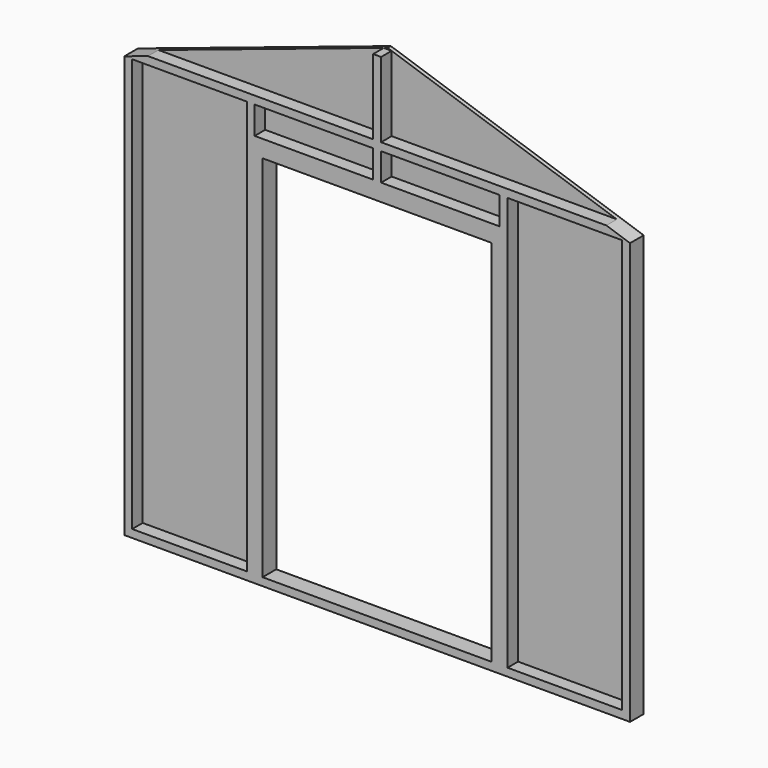
from build123d import *

# Parameters (mm, degrees)
F0_W     = 106.02127
F0_H     = 2032
F1_DEPTH = 19.05
F2_W     = 38.1
F2_H     = 361.95
F2_H_2   = 133.35
F2_H_3   = 1993.9
F3_DEPTH = 63.5
F2_H_4   = 1778
F2_W_2   = 1181.1
F2_H_5   = 6.35
F4_DEPTH = 63.5
F2_W_3   = 1104.9
F5_DEPTH = 19.05


with BuildPart() as f1:
    # F0 (on Front) → F1 (new body)
    with BuildSketch(Plane.XZ):
        Polygon((-1113.17873, -1016), (1219.2, -1016), (1219.2, 1016), (0, 1422.4), (-1219.2, 1016), (-1113.17873, 1016), align=None)
        with Locations((-1166.189365, 0)):
            Rectangle(F0_W, F0_H)
    extrude(amount=F1_DEPTH)

    # F2 (on face) → F3 (join)
    with BuildSketch(Plane.XZ.offset(19.05)):
        with Locations((0, 1235.075)):
            Rectangle(F2_W, F2_H)
        Polygon((-1104.9, 1054.1), (-1219.2, 1016), (-1181.1, 1016), (-628.65, 1016), (-590.55, 1016), (-19.05, 1016), (19.05, 1016), (590.55, 1016), (628.65, 1016), (1181.1, 1016), (1219.2, 1016), (1104.9, 1054.1), (19.05, 1054.1), (-19.05, 1054.1), align=None)
        with Locations((0, 949.325)):
            Rectangle(F2_W, F2_H_2)
        Polygon((-590.55, 1016), (-628.65, 1016), (-628.65, -977.9), (-590.55, -977.9), (-590.55, 800.1), (-590.55, 838.2), (-590.55, 844.55), (-590.55, 882.65), align=None)
        Polygon((628.65, 1016), (590.55, 1016), (590.55, 882.65), (590.55, 844.55), (590.55, 838.2), (590.55, 800.1), (590.55, -977.9), (628.65, -977.9), align=None)
        with Locations((1200.15, 19.05)):
            Rectangle(F2_W, F2_H_3)
        with Locations((-1200.15, 19.05)):
            Rectangle(F2_W, F2_H_3)
        Polygon((-1181.1, -977.9), (-1219.2, -977.9), (-1219.2, -1016), (-609.6, -1016), (-590.55, -1016), (1219.2, -1016), (1219.2, -977.9), (1181.1, -977.9), (628.65, -977.9), (590.55, -977.9), (552.45, -977.9), (-552.45, -977.9), (-590.55, -977.9), (-628.65, -977.9), align=None)
    extrude(amount=F3_DEPTH)

    # F2 (on face) → F4 (join)
    with BuildSketch(Plane.XZ.offset(19.05)):
        with Locations((-571.5, -88.9)):
            Rectangle(F2_W, F2_H_4)
        with Locations((571.5, -88.9)):
            Rectangle(F2_W, F2_H_4)
        Polygon((-19.05, 882.65), (-590.55, 882.65), (-590.55, 844.55), (590.55, 844.55), (590.55, 882.65), (19.05, 882.65), align=None)
        Polygon((-590.55, 838.2), (-590.55, 800.1), (-552.45, 800.1), (552.45, 800.1), (590.55, 800.1), (590.55, 838.2), align=None)
        with Locations((0, 841.375)):
            Rectangle(F2_W_2, F2_H_5)
    extrude(amount=F4_DEPTH)

    # F2 (on face) → F5 (cut, through all)
    with BuildSketch(Plane.XZ.offset(19.05)):
        with Locations((0, -88.9)):
            Rectangle(F2_W_3, F2_H_4)
    extrude(amount=-F5_DEPTH, mode=Mode.SUBTRACT)


solid = f1.part
